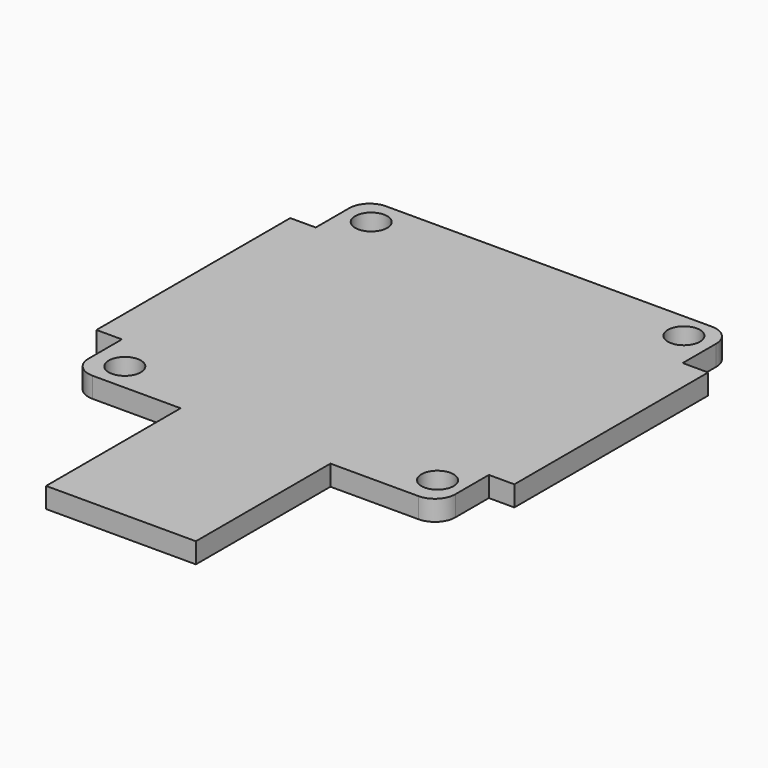
from build123d import *

# Parameters (mm, degrees)
F0_R     = 1.575
F0_W     = 14.697724
F0_H     = 16.5
F0_W_2   = 2.5
F0_H_2   = 23.769202
F1_DEPTH = 2


with BuildPart() as f1:
    # F0 (on Top) → F1 (new body)
    with BuildSketch(Plane.XY):
        with BuildLine():
            ThreePointArc((-18, -15.999481), (-17.414214, -17.413694), (-16, -17.999481))
            Line((-16, -17.999481), (-7.348862, -17.999481))
            Line((-7.348862, -17.999481), (7.348862, -17.999481))
            Line((7.348862, -17.999481), (16, -17.999481))
            ThreePointArc((16, -17.999481), (17.414214, -17.413694), (18, -15.999481))
            Line((18, -15.999481), (18, -11.884601))
            Line((18, -11.884601), (18, 11.884601))
            Line((18, 11.884601), (18, 15.999481))
            ThreePointArc((18, 15.999481), (17.414214, 17.413694), (16, 17.999481))
            Line((16, 17.999481), (-16, 17.999481))
            ThreePointArc((-16, 17.999481), (-17.414214, 17.413694), (-18, 15.999481))
            Line((-18, 15.999481), (-18, 11.884601))
            Line((-18, 11.884601), (-18, -11.884601))
            Line((-18, -11.884601), (-18, -15.999481))
        make_face()
        with Locations((-15.025322, -15.249588)):
            Circle(F0_R, mode=Mode.SUBTRACT)
        with Locations((15.473853, -15.025322)):
            Circle(F0_R, mode=Mode.SUBTRACT)
        with Locations((-15.249588, 15.249588)):
            Circle(F0_R, mode=Mode.SUBTRACT)
        with Locations((15.249588, 15.473853)):
            Circle(F0_R, mode=Mode.SUBTRACT)
        with Locations((0, -26.249481)):
            Rectangle(F0_W, F0_H)
        with Locations((-19.25, 0)):
            Rectangle(F0_W_2, F0_H_2)
        with Locations((19.25, 0)):
            Rectangle(F0_W_2, F0_H_2)
    extrude(amount=F1_DEPTH)


solid = f1.part
